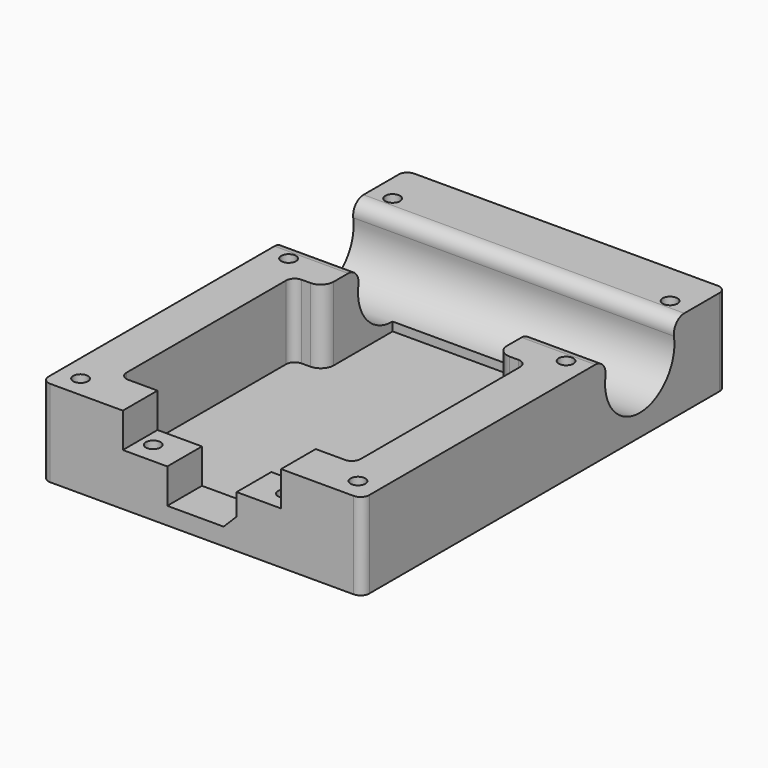
from build123d import *

# Parameters (mm, degrees)
F1_W           = 74
F1_H           = 105
F2_DEPTH       = 3
F3_W           = 74
F3_H           = 105
F4_DEPTH       = 17
F5_R           = 10
F6_DEPTH       = 74.001
F8_D           = 3.4
F8_CBORE_D     = 6.5
F8_CBORE_DEPTH = 3
F9_R           = 2
F10_R          = 3
F11_R          = 2
F12_W          = 36.5
F12_H          = 10
F12_R          = 1.7
F13_DEPTH      = 8
F14_W          = 16
F14_H          = 10
F15_DEPTH      = 16
F16_SIZE       = 3
F17_R          = 3


with BuildPart() as f2:
    # F1 (on face) → F2 (new body)
    with BuildSketch(Plane.XY):
        with Locations((0, 2.5)):
            Rectangle(F1_W, F1_H)
    extrude(amount=F2_DEPTH)

    # F3 (on face) → F4 (join)
    with BuildSketch(Plane.XY.offset(3)):
        with Locations((0, 2.5)):
            Rectangle(F3_W, F3_H)
        Polygon((20, 10), (27, 10), (27, -40), (-27, -40), (-27, 10), (-20, 10), (-20, 30), (20, 30), align=None, mode=Mode.SUBTRACT)
    extrude(amount=F4_DEPTH)

    # F5 (on face) → F6 (cut, through all)
    with BuildSketch(Plane.YZ.offset(37)):
        with Locations((30, 15)):
            Circle(F5_R)
    extrude(amount=-F6_DEPTH, mode=Mode.SUBTRACT)

    # F8 (through all)
    with Locations(Plane(origin=(0, 0, 0), x_dir=(1, 0, 0), z_dir=(0, 0, -1))):
        with Locations((32, -15), (32, -45), (-32, -45), (-32, -15), (32, 45), (-32, 45), (-15.25, 45), (15.25, 45)):
            CounterBoreHole(F8_D / 2, F8_CBORE_D / 2, F8_CBORE_DEPTH)

    # F9
    f9_edges = [f2.edges().sort_by_distance(p)[0] for p in [
        (37, 55, 10),
        (-37, 55, 10),
        (37, -50, 10),
        (-37, -50, 10),
    ]]
    fillet(f9_edges, radius=F9_R)

    # F10
    f10_edges = [f2.edges().sort_by_distance(p)[0] for p in [
        (-20, 10, 11.5),
        (20, 10, 11.5),
    ]]
    fillet(f10_edges, radius=F10_R)

    # F11
    f11_edges = [f2.edges().sort_by_distance(p)[0] for p in [
        (27, 10, 11.5),
        (-27, 10, 11.5),
        (-27, -40, 11.5),
        (27, -40, 11.5),
    ]]
    fillet(f11_edges, radius=F11_R)

    # F12 (on face) → F13 (cut)
    with BuildSketch(Plane.XY.offset(20)):
        with Locations((0, -45)):
            Rectangle(F12_W, F12_H)
        with Locations((-15.25, -45)):
            Circle(F12_R, mode=Mode.SUBTRACT)
        with Locations((15.25, -45)):
            Circle(F12_R, mode=Mode.SUBTRACT)
    extrude(amount=-F13_DEPTH, mode=Mode.SUBTRACT)

    # F14 (on face) → F15 (cut)
    with BuildSketch(Plane.XY.offset(20)):
        with Locations((0, -45)):
            Rectangle(F14_W, F14_H)
    extrude(amount=-F15_DEPTH, mode=Mode.SUBTRACT)

    # F16
    f16_edges = [f2.edges().sort_by_distance(p)[0] for p in [
        (8, -45, 4),
    ]]
    chamfer(f16_edges, length=F16_SIZE)

    # F17
    f17_edges = [f2.edges().sort_by_distance(p)[0] for p in [
        (0, 38.660254, 20),
        (-28.5, 21.339746, 20),
        (28.5, 21.339746, 20),
    ]]
    fillet(f17_edges, radius=F17_R)


solid = f2.part
